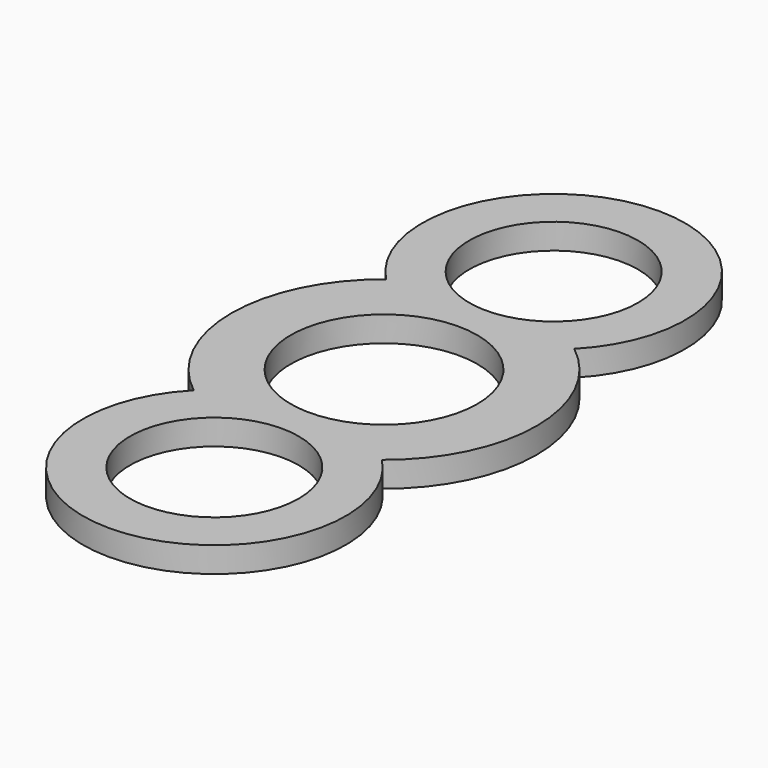
from build123d import *

# Parameters (mm, degrees)
F0_R     = 9.95
F0_R_2   = 11
F1_DEPTH = 3


with BuildPart() as f1:
    # F0 (on Top) → F1 (new body)
    with BuildSketch(Plane.XY):
        with BuildLine():
            ThreePointArc((11.093664, -14.175), (18, 0), (11.093664, 14.175))
            ThreePointArc((11.093664, 14.175), (0, 40.5), (-11.093664, 14.175))
            ThreePointArc((-11.093664, 14.175), (-18, 0), (-11.093664, -14.175))
            ThreePointArc((-11.093664, -14.175), (0, -40.5), (11.093664, -14.175))
        make_face()
        with Locations((0, -25)):
            Circle(F0_R, mode=Mode.SUBTRACT)
        Circle(F0_R_2, mode=Mode.SUBTRACT)
        with Locations((0, 25)):
            Circle(F0_R, mode=Mode.SUBTRACT)
    extrude(amount=F1_DEPTH)


solid = f1.part
